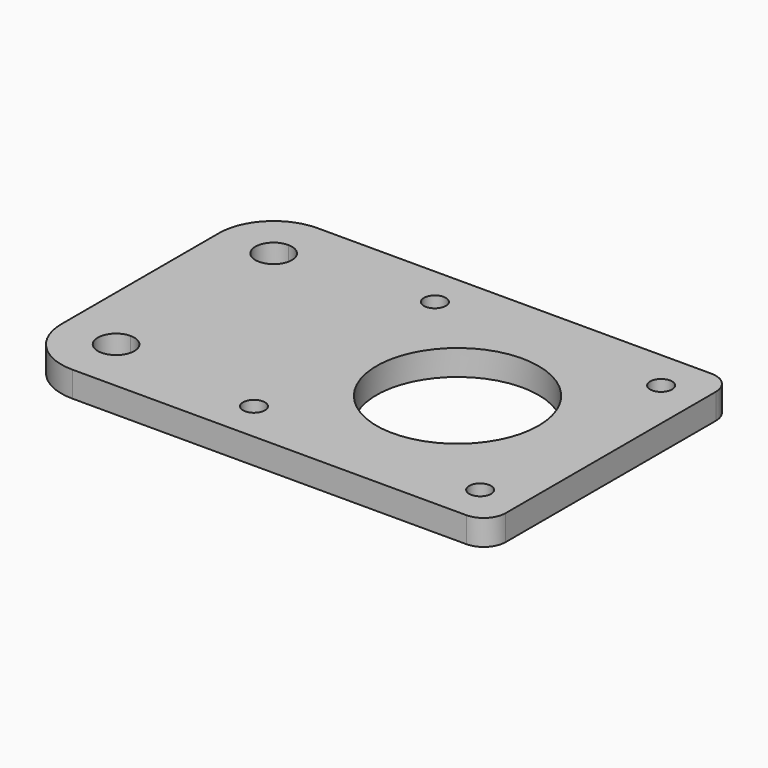
from build123d import *

# Parameters (mm, degrees)
F0_R     = 1.5
F0_R_2   = 11.1
F1_DEPTH = 3.5


with BuildPart() as f1:
    # F0 (on Top) → F1 (new body)
    with BuildSketch(Plane.XY):
        with BuildLine():
            Line((17.909722, 21), (-21.090278, 21))
            Line((-21.090278, 21), (-21.090278, -21))
            Line((-21.090278, -21), (-15.590278, -21))
            Line((-15.590278, -21), (17.909722, -21))
            ThreePointArc((17.909722, -21), (20.031042, -20.12132), (20.909722, -18))
            Line((20.909722, -18), (20.909722, 18))
            ThreePointArc((20.909722, 18), (20.031042, 20.12132), (17.909722, 21))
        make_face()
        with Locations((-15.590278, -15.5)):
            Circle(F0_R, mode=Mode.SUBTRACT)
        with Locations((15.409722, -15.5)):
            Circle(F0_R, mode=Mode.SUBTRACT)
        with Locations((-15.590278, 15.5)):
            Circle(F0_R, mode=Mode.SUBTRACT)
        with Locations((-0.090278, 0)):
            Circle(F0_R_2, mode=Mode.SUBTRACT)
        with Locations((15.409722, 15.5)):
            Circle(F0_R, mode=Mode.SUBTRACT)
        with BuildLine():
            Line((-21.090278, -21), (-21.090278, 21))
            Line((-21.090278, 21), (-36.090278, 21))
            Line((-36.090278, 21), (-36.090278, 16))
            ThreePointArc((-36.090278, 16), (-34.322511, 15.267767), (-33.590278, 13.5))
            ThreePointArc((-33.590278, 13.5), (-34.322511, 11.732233), (-36.090278, 11))
            Line((-36.090278, 11), (-36.090278, -11))
            ThreePointArc((-36.090278, -11), (-34.322511, -11.732233), (-33.590278, -13.5))
            ThreePointArc((-33.590278, -13.5), (-34.322511, -15.267767), (-36.090278, -16))
            Line((-36.090278, -16), (-36.090278, -21))
            Line((-36.090278, -21), (-21.090278, -21))
        make_face()
        with BuildLine():
            Line((-36.090278, 16), (-36.090278, 21))
            ThreePointArc((-36.090278, 21), (-41.393579, 18.803301), (-43.590278, 13.5))
            Line((-43.590278, 13.5), (-43.590278, -13.5))
            ThreePointArc((-43.590278, -13.5), (-41.393579, -18.803301), (-36.090278, -21))
            Line((-36.090278, -21), (-36.090278, -16))
            ThreePointArc((-36.090278, -16), (-38.590278, -13.5), (-36.090278, -11))
            Line((-36.090278, -11), (-36.090278, 11))
            ThreePointArc((-36.090278, 11), (-38.590278, 13.5), (-36.090278, 16))
        make_face()
    extrude(amount=F1_DEPTH)


solid = f1.part
